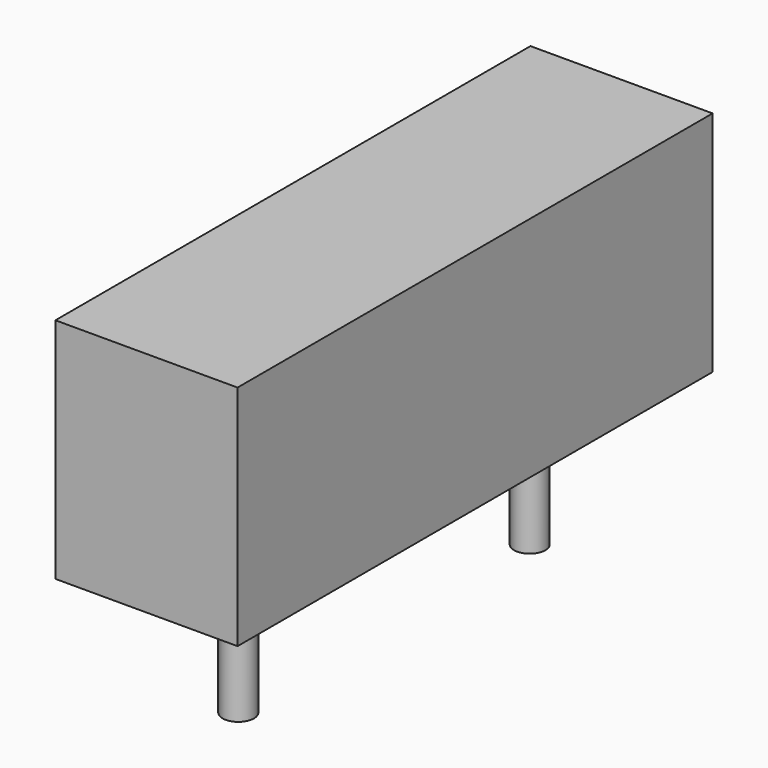
from build123d import *

# Parameters (mm, degrees)
F0_W     = 12.7
F0_H     = 41.402
F1_DEPTH = 15.875
F2_R     = 1.0922
F3_DEPTH = 9.398


with BuildPart() as f1:
    # F0 (on Top) → F1 (new body)
    with BuildSketch(Plane.XY):
        Rectangle(F0_W, F0_H)
    extrude(amount=F1_DEPTH)

    # F2 (on Top) → F3 (join)
    with BuildSketch(Plane.XY):
        with Locations((0, 12.7)):
            Circle(F2_R)
        with Locations((0, -12.7)):
            Circle(F2_R)
    extrude(amount=-F3_DEPTH)


solid = f1.part
